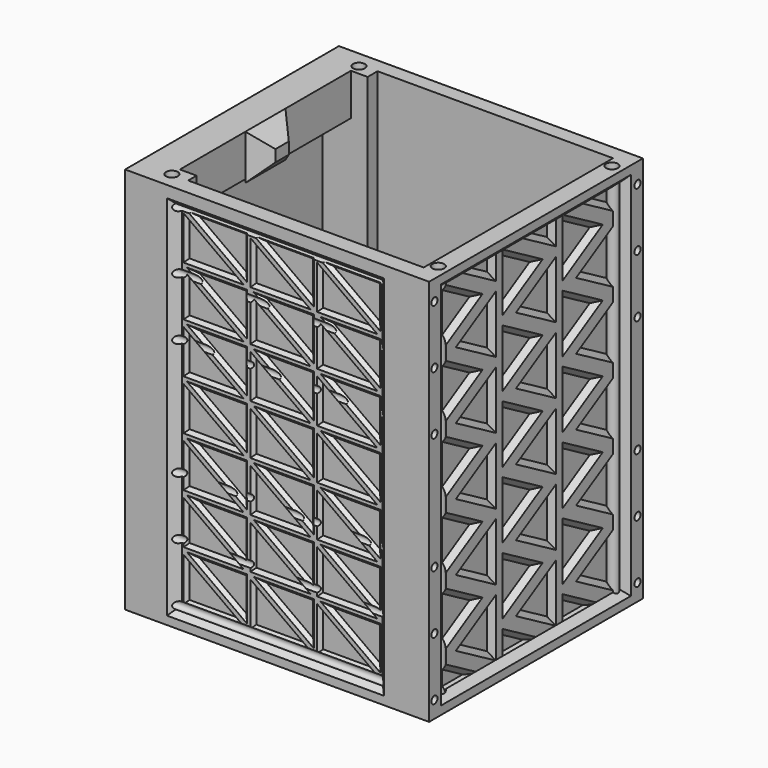
from build123d import *

# Parameters (mm, degrees)
SKETCH007_W     = 182
SKETCH007_H     = 160
PAD003_DEPTH    = 232
POCKET001_DEPTH = 300
SKETCH009_W     = 140
SKETCH009_H     = 25
SKETCH009_W_2   = 141
SKETCH009_H_2   = 30
PAD004_DEPTH    = 20
SKETCH008_W     = 30
SKETCH008_H     = 25
SKETCH008_H_2   = 27
PAD005_DEPTH    = 10
PAD005_TAPER    = 45
SKETCH010_R     = 3.55
HOLE003_DEPTH   = 232.001
SKETCH011_R     = 2.25
HOLE004_DEPTH   = 182.001
POCKET008_DEPTH = 3
POCKET008_TAPER = 45
SKETCH027_W     = 144
SKETCH027_H     = 224
POCKET009_DEPTH = 5
POCKET009_TAPER = 45
POCKET010_DEPTH = 2
POCKET010_TAPER = 45
SKETCH029_W     = 130
SKETCH029_H     = 220
POCKET011_DEPTH = 5
POCKET011_TAPER = 45
SKETCH031_W     = 130
SKETCH031_H     = 220
POCKET012_DEPTH = 5
POCKET012_TAPER = 45
POCKET013_DEPTH = 2
POCKET013_TAPER = 45


with BuildPart() as part:
    # Sketch007 → Pad003 (new body)
    with BuildSketch(Plane.XY):
        with Locations((91, 80)):
            Rectangle(SKETCH007_W, SKETCH007_H)
    extrude(amount=PAD003_DEPTH)

    # Sketch015 → Pocket001 (cut)
    with BuildSketch(Plane.XY):
        Polygon((171, 151.400002), (30, 151.400002), (30, 144), (3, 144), (3, 16), (30, 16), (30, 9.7), (171, 9.7), align=None)
    extrude(amount=POCKET001_DEPTH, mode=Mode.SUBTRACT)

    # Sketch009 → Pad004 (join)
    with BuildSketch(Plane.YZ):
        with Locations((80, 219.5)):
            Rectangle(SKETCH009_W, SKETCH009_H)
        with Locations((80.5, 15)):
            Rectangle(SKETCH009_W_2, SKETCH009_H_2)
    extrude(amount=PAD004_DEPTH)

    # Sketch008 → Pad005 (join)
    with BuildSketch(Plane.YZ.offset(20)):
        with Locations((80, 12.5)):
            Rectangle(SKETCH008_W, SKETCH008_H)
        with Locations((80, 218.5)):
            Rectangle(SKETCH008_W, SKETCH008_H_2)
    extrude(amount=PAD005_DEPTH, taper=PAD005_TAPER)

    # Sketch010 → Hole003 (cut, through all)
    with BuildSketch(Plane.XY):
        with Locations((20, 150)):
            Circle(SKETCH010_R)
        with Locations((20, 10)):
            Circle(SKETCH010_R)
        with Locations((175.5, 145)):
            Circle(SKETCH010_R)
        with Locations((175.5, 15)):
            Circle(SKETCH010_R)
    extrude(amount=HOLE003_DEPTH, mode=Mode.SUBTRACT)

    # Sketch011 → Hole004 (cut, through all)
    with BuildSketch(Plane.YZ):
        with Locations((156, 220)):
            Circle(SKETCH011_R)
        with Locations((156, 185)):
            Circle(SKETCH011_R)
        with Locations((156, 150)):
            Circle(SKETCH011_R)
        with Locations((156, 80)):
            Circle(SKETCH011_R)
        with Locations((156, 45)):
            Circle(SKETCH011_R)
        with Locations((156, 10)):
            Circle(SKETCH011_R)
        with Locations((4, 220)):
            Circle(SKETCH011_R)
        with Locations((4, 185)):
            Circle(SKETCH011_R)
        with Locations((4, 150)):
            Circle(SKETCH011_R)
        with Locations((4, 80)):
            Circle(SKETCH011_R)
        with Locations((4, 45)):
            Circle(SKETCH011_R)
        with Locations((4, 10)):
            Circle(SKETCH011_R)
    extrude(amount=HOLE004_DEPTH, mode=Mode.SUBTRACT)

    # Sketch026 → Pocket008 (cut)
    with BuildSketch(Plane.YZ.offset(178)):
        Polygon((45, 206), (15, 223.320508), (15, 188.679492), align=None)
        Polygon((45, 166), (15, 183.320508), (15, 148.679492), align=None)
        Polygon((25, 186), (55, 168.679492), (55, 203.320508), align=None)
        Polygon((25, 146), (55, 128.679492), (55, 163.320508), align=None)
        Polygon((45, 126), (15, 143.320508), (15, 108.679492), align=None)
        Polygon((45, 86), (15, 103.320508), (15, 68.679492), align=None)
        Polygon((25, 106), (55, 88.679492), (55, 123.320508), align=None)
        Polygon((25, 66), (55, 48.679492), (55, 83.320508), align=None)
        Polygon((45, 46), (15, 63.320508), (15, 28.679492), align=None)
        Polygon((55, 43.320508), (25, 26), (55, 8.679492), align=None)
        Polygon((90, 206), (60, 223.320508), (60, 188.679492), align=None)
        Polygon((90, 166), (60, 183.320508), (60, 148.679492), align=None)
        Polygon((70, 186), (100, 168.679492), (100, 203.320508), align=None)
        Polygon((70, 146), (100, 128.679492), (100, 163.320508), align=None)
        Polygon((90, 126), (60, 143.320508), (60, 108.679492), align=None)
        Polygon((90, 86), (60, 103.320508), (60, 68.679492), align=None)
        Polygon((70, 106), (100, 88.679492), (100, 123.320508), align=None)
        Polygon((70, 66), (100, 48.679492), (100, 83.320508), align=None)
        Polygon((90, 46), (60, 63.320508), (60, 28.679492), align=None)
        Polygon((100, 43.320508), (70, 26), (100, 8.679492), align=None)
        Polygon((135, 206), (105, 223.320508), (105, 188.679492), align=None)
        Polygon((135, 166), (105, 183.320508), (105, 148.679492), align=None)
        Polygon((115, 186), (145, 168.679492), (145, 203.320508), align=None)
        Polygon((115, 146), (145, 128.679492), (145, 163.320508), align=None)
        Polygon((135, 126), (105, 143.320508), (105, 108.679492), align=None)
        Polygon((135, 86), (105, 103.320508), (105, 68.679492), align=None)
        Polygon((115, 106), (145, 88.679492), (145, 123.320508), align=None)
        Polygon((115, 66), (145, 48.679492), (145, 83.320508), align=None)
        Polygon((135, 46), (105, 63.320508), (105, 28.679492), align=None)
        Polygon((145, 43.320508), (115, 26), (145, 8.679492), align=None)
        Polygon((55, 226), (25, 226), (55, 208.679492), align=None)
        Polygon((100, 226), (70, 226), (100, 208.679492), align=None)
        Polygon((145, 226), (115, 226), (145, 208.679492), align=None)
        Polygon((90, 6), (60, 23.320508), (60, 6), align=None)
        Polygon((15, 6), (45, 6), (15, 23.320508), align=None)
        Polygon((105, 23.320508), (105, 6), (135, 6), align=None)
    extrude(amount=-POCKET008_DEPTH, taper=POCKET008_TAPER, mode=Mode.SUBTRACT)

    # Sketch027 → Pocket009 (cut)
    with BuildSketch(Plane.YZ.offset(183)):
        with Locations((80, 116)):
            Rectangle(SKETCH027_W, SKETCH027_H)
    extrude(amount=-POCKET009_DEPTH, taper=POCKET009_TAPER, mode=Mode.SUBTRACT)

    # Sketch028 → Pocket010 (cut)
    with BuildSketch(Plane(origin=(10, 5, 0), x_dir=(1, 0, 0), z_dir=(0, -1, 0))):
        Polygon((23, 219), (59, 219), (59, 193), align=None)
        Polygon((57, 191), (21, 191), (21, 217), align=None)
        Polygon((63, 219), (99, 219), (99, 193), align=None)
        Polygon((97, 191), (61, 191), (61, 217), align=None)
        Polygon((103, 219), (139, 219), (139, 193), align=None)
        Polygon((137, 191), (101, 191), (101, 217), align=None)
        Polygon((23, 189), (59, 189), (59, 163), align=None)
        Polygon((57, 161), (21, 161), (21, 187), align=None)
        Polygon((63, 189), (99, 189), (99, 163), align=None)
        Polygon((97, 161), (61, 161), (61, 187), align=None)
        Polygon((103, 189), (139, 189), (139, 163), align=None)
        Polygon((137, 161), (101, 161), (101, 187), align=None)
        Polygon((23, 159), (59, 159), (59, 133), align=None)
        Polygon((57, 131), (21, 131), (21, 157), align=None)
        Polygon((63, 159), (99, 159), (99, 133), align=None)
        Polygon((97, 131), (61, 131), (61, 157), align=None)
        Polygon((103, 159), (139, 159), (139, 133), align=None)
        Polygon((137, 131), (101, 131), (101, 157), align=None)
        Polygon((23, 129), (59, 129), (59, 103), align=None)
        Polygon((57, 101), (21, 101), (21, 127), align=None)
        Polygon((63, 129), (99, 129), (99, 103), align=None)
        Polygon((97, 101), (61, 101), (61, 127), align=None)
        Polygon((103, 129), (139, 129), (139, 103), align=None)
        Polygon((137, 101), (101, 101), (101, 127), align=None)
        Polygon((23, 99), (59, 99), (59, 73), align=None)
        Polygon((57, 71), (21, 71), (21, 97), align=None)
        Polygon((63, 99), (99, 99), (99, 73), align=None)
        Polygon((97, 71), (61, 71), (61, 97), align=None)
        Polygon((103, 99), (139, 99), (139, 73), align=None)
        Polygon((137, 71), (101, 71), (101, 97), align=None)
        Polygon((23, 69), (59, 69), (59, 43), align=None)
        Polygon((57, 41), (21, 41), (21, 67), align=None)
        Polygon((63, 69), (99, 69), (99, 43), align=None)
        Polygon((97, 41), (61, 41), (61, 67), align=None)
        Polygon((103, 69), (139, 69), (139, 43), align=None)
        Polygon((137, 41), (101, 41), (101, 67), align=None)
        Polygon((23, 39), (59, 39), (59, 13), align=None)
        Polygon((57, 11), (21, 11), (21, 37), align=None)
        Polygon((63, 39), (99, 39), (99, 13), align=None)
        Polygon((97, 11), (61, 11), (61, 37), align=None)
        Polygon((103, 39), (139, 39), (139, 13), align=None)
        Polygon((137, 11), (101, 11), (101, 37), align=None)
    extrude(amount=-POCKET010_DEPTH, taper=POCKET010_TAPER, mode=Mode.SUBTRACT)

    # Sketch029 → Pocket011 (cut)
    with BuildSketch(Plane.XZ):
        with Locations((90, 115)):
            Rectangle(SKETCH029_W, SKETCH029_H)
    extrude(amount=-POCKET011_DEPTH, taper=POCKET011_TAPER, mode=Mode.SUBTRACT)

    # Sketch031 → Pocket012 (cut)
    with BuildSketch(Plane.XZ.offset(-160)):
        with Locations((90, 115)):
            Rectangle(SKETCH031_W, SKETCH031_H)
    extrude(amount=POCKET012_DEPTH, taper=POCKET012_TAPER, mode=Mode.SUBTRACT)

    # Sketch030 → Pocket013 (cut)
    with BuildSketch(Plane(origin=(10, 155, 0), x_dir=(1, 0, 0), z_dir=(0, -1, 0))):
        Polygon((23, 219), (59, 219), (59, 193), align=None)
        Polygon((57, 191), (21, 191), (21, 217), align=None)
        Polygon((63, 219), (99, 219), (99, 193), align=None)
        Polygon((97, 191), (61, 191), (61, 217), align=None)
        Polygon((103, 219), (139, 219), (139, 193), align=None)
        Polygon((137, 191), (101, 191), (101, 217), align=None)
        Polygon((23, 189), (59, 189), (59, 163), align=None)
        Polygon((57, 161), (21, 161), (21, 187), align=None)
        Polygon((63, 189), (99, 189), (99, 163), align=None)
        Polygon((97, 161), (61, 161), (61, 187), align=None)
        Polygon((103, 189), (139, 189), (139, 163), align=None)
        Polygon((137, 161), (101, 161), (101, 187), align=None)
        Polygon((23, 159), (59, 159), (59, 133), align=None)
        Polygon((57, 131), (21, 131), (21, 157), align=None)
        Polygon((63, 159), (99, 159), (99, 133), align=None)
        Polygon((97, 131), (61, 131), (61, 157), align=None)
        Polygon((103, 159), (139, 159), (139, 133), align=None)
        Polygon((137, 131), (101, 131), (101, 157), align=None)
        Polygon((23, 129), (59, 129), (59, 103), align=None)
        Polygon((57, 101), (21, 101), (21, 127), align=None)
        Polygon((63, 129), (99, 129), (99, 103), align=None)
        Polygon((97, 101), (61, 101), (61, 127), align=None)
        Polygon((103, 129), (139, 129), (139, 103), align=None)
        Polygon((137, 101), (101, 101), (101, 127), align=None)
        Polygon((23, 99), (59, 99), (59, 73), align=None)
        Polygon((57, 71), (21, 71), (21, 97), align=None)
        Polygon((63, 99), (99, 99), (99, 73), align=None)
        Polygon((97, 71), (61, 71), (61, 97), align=None)
        Polygon((103, 99), (139, 99), (139, 73), align=None)
        Polygon((137, 71), (101, 71), (101, 97), align=None)
        Polygon((23, 69), (59, 69), (59, 43), align=None)
        Polygon((57, 41), (21, 41), (21, 67), align=None)
        Polygon((63, 69), (99, 69), (99, 43), align=None)
        Polygon((97, 41), (61, 41), (61, 67), align=None)
        Polygon((103, 69), (139, 69), (139, 43), align=None)
        Polygon((137, 41), (101, 41), (101, 67), align=None)
        Polygon((23, 39), (59, 39), (59, 13), align=None)
        Polygon((57, 11), (21, 11), (21, 37), align=None)
        Polygon((63, 39), (99, 39), (99, 13), align=None)
        Polygon((97, 11), (61, 11), (61, 37), align=None)
        Polygon((103, 39), (139, 39), (139, 13), align=None)
        Polygon((137, 11), (101, 11), (101, 37), align=None)
    extrude(amount=POCKET013_DEPTH, taper=POCKET013_TAPER, mode=Mode.SUBTRACT)


with BuildPart() as part_1:
    # Body003 placement: moved
    add(part.part.moved(Location((-80, -10, -116))))


solid = part_1.part
